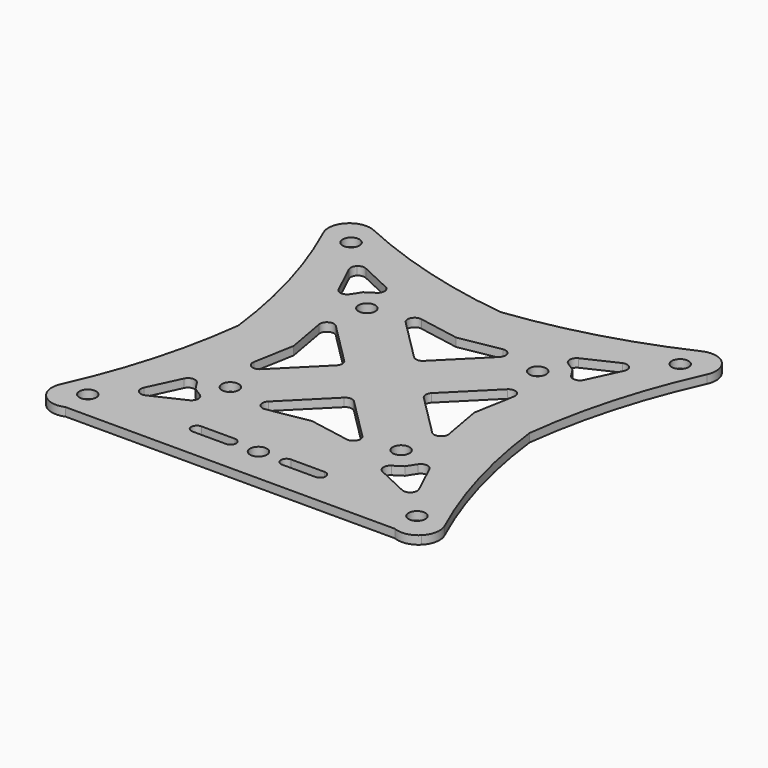
from build123d import *

# Parameters (mm, degrees)
F0_R     = 1.5
F1_DEPTH = 1.5


with BuildPart() as f1:
    # F0 (on Top) → F1 (new body)
    with BuildSketch(Plane.XY):
        with BuildLine():
            ThreePointArc((26, 0), (29.003525, 14.971686), (34.274381, 29.303142))
            ThreePointArc((34.274381, 29.303142), (34.556043, 31.528729), (33.516861, 33.516861))
            ThreePointArc((33.516861, 33.516861), (31.528729, 34.556043), (29.303142, 34.274381))
            ThreePointArc((29.303142, 34.274381), (14.971686, 29.003525), (0, 26))
            ThreePointArc((0, 26), (-14.971686, 29.003525), (-29.303142, 34.274381))
            ThreePointArc((-29.303142, 34.274381), (-31.528729, 34.556043), (-33.516861, 33.516861))
            ThreePointArc((-33.516861, 33.516861), (-34.556043, 31.528729), (-34.274381, 29.303142))
            ThreePointArc((-34.274381, 29.303142), (-29.003525, 14.971686), (-26, 0))
            ThreePointArc((-26, 0), (-29.003525, -14.971686), (-34.274381, -29.303142))
            ThreePointArc((-34.274381, -29.303142), (-34.556043, -31.528729), (-33.516861, -33.516861))
            ThreePointArc((-33.516861, -33.516861), (-31.590724, -34.544359), (-29.418712, -34.325))
            Line((-29.418712, -34.325), (29.418712, -34.325))
            ThreePointArc((29.418712, -34.325), (31.590724, -34.544359), (33.516861, -33.516861))
            ThreePointArc((33.516861, -33.516861), (34.556043, -31.528729), (34.274381, -29.303142))
            ThreePointArc((34.274381, -29.303142), (29.003525, -14.971686), (26, 0))
        make_face()
        with Locations((-29.392136, -29.392136)):
            Circle(F0_R, mode=Mode.SUBTRACT)
        with BuildLine():
            ThreePointArc((-24.324473, -24.324473), (-24.671832, -23.656327), (-24.572337, -22.909884))
            Line((-24.572337, -22.909884), (-21.918806, -17.251149))
            ThreePointArc((-21.918806, -17.251149), (-20.871666, -16.534722), (-19.73736, -17.103157))
            Line((-19.73736, -17.103157), (-18.702974, -18.702974))
            Line((-18.702974, -18.702974), (-17.103157, -19.73736))
            ThreePointArc((-17.103157, -19.73736), (-16.534722, -20.871666), (-17.251149, -21.918806))
            Line((-17.251149, -21.918806), (-22.909884, -24.572337))
            ThreePointArc((-22.909884, -24.572337), (-23.656327, -24.671832), (-24.324473, -24.324473))
        make_face(mode=Mode.SUBTRACT)
        with BuildLine():
            Line((-11, -27.025), (-5, -27.025))
            ThreePointArc((-5, -27.025), (-4, -28.025), (-5, -29.025))
            Line((-5, -29.025), (-11, -29.025))
            ThreePointArc((-11, -29.025), (-12, -28.025), (-11, -27.025))
        make_face(mode=Mode.SUBTRACT)
        with Locations((-15.25, -15.25)):
            Circle(F0_R, mode=Mode.SUBTRACT)
        with Locations((0, -28.025)):
            Circle(F0_R, mode=Mode.SUBTRACT)
        with BuildLine():
            ThreePointArc((5, -29.025), (4, -28.025), (5, -27.025))
            Line((5, -27.025), (11, -27.025))
            ThreePointArc((11, -27.025), (12, -28.025), (11, -29.025))
            Line((11, -29.025), (5, -29.025))
        make_face(mode=Mode.SUBTRACT)
        with Locations((29.392136, -29.392136)):
            Circle(F0_R, mode=Mode.SUBTRACT)
        with BuildLine():
            Line((21.918806, -17.251149), (24.572337, -22.909884))
            ThreePointArc((24.572337, -22.909884), (24.671832, -23.656327), (24.324473, -24.324473))
            ThreePointArc((24.324473, -24.324473), (23.656327, -24.671832), (22.909884, -24.572337))
            Line((22.909884, -24.572337), (17.251149, -21.918806))
            ThreePointArc((17.251149, -21.918806), (16.534722, -20.871666), (17.103157, -19.73736))
            Line((17.103157, -19.73736), (18.702974, -18.702974))
            Line((18.702974, -18.702974), (19.73736, -17.103157))
            ThreePointArc((19.73736, -17.103157), (20.871666, -16.534722), (21.918806, -17.251149))
        make_face(mode=Mode.SUBTRACT)
        with BuildLine():
            ThreePointArc((8.383883, -15.31353), (8.608023, -16.776019), (7.279787, -17.427863))
            Line((7.279787, -17.427863), (0, -16.125))
            Line((0, -16.125), (-7.279787, -17.427863))
            ThreePointArc((-7.279787, -17.427863), (-8.608023, -16.776019), (-8.383883, -15.31353))
            Line((-8.383883, -15.31353), (-0.883883, -7.81353))
            ThreePointArc((-0.883883, -7.81353), (0, -7.447413), (0.883883, -7.81353))
            Line((0.883883, -7.81353), (8.383883, -15.31353))
        make_face(mode=Mode.SUBTRACT)
        with Locations((15.25, -15.25)):
            Circle(F0_R, mode=Mode.SUBTRACT)
        with BuildLine():
            Line((-16.125, 0), (-17.427863, 7.279787))
            ThreePointArc((-17.427863, 7.279787), (-16.776019, 8.608023), (-15.31353, 8.383883))
            Line((-15.31353, 8.383883), (-7.81353, 0.883883))
            ThreePointArc((-7.81353, 0.883883), (-7.447413, 0), (-7.81353, -0.883883))
            Line((-7.81353, -0.883883), (-15.31353, -8.383883))
            ThreePointArc((-15.31353, -8.383883), (-16.776019, -8.608023), (-17.427863, -7.279787))
            Line((-17.427863, -7.279787), (-16.125, 0))
        make_face(mode=Mode.SUBTRACT)
        with Locations((-15.25, 15.25)):
            Circle(F0_R, mode=Mode.SUBTRACT)
        with BuildLine():
            ThreePointArc((-17.251149, 21.918806), (-16.534722, 20.871666), (-17.103157, 19.73736))
            Line((-17.103157, 19.73736), (-18.702974, 18.702974))
            Line((-18.702974, 18.702974), (-19.73736, 17.103157))
            ThreePointArc((-19.73736, 17.103157), (-20.871666, 16.534722), (-21.918806, 17.251149))
            Line((-21.918806, 17.251149), (-24.572337, 22.909884))
            ThreePointArc((-24.572337, 22.909884), (-24.671832, 23.656327), (-24.324473, 24.324473))
            ThreePointArc((-24.324473, 24.324473), (-23.656327, 24.671832), (-22.909884, 24.572337))
            Line((-22.909884, 24.572337), (-17.251149, 21.918806))
        make_face(mode=Mode.SUBTRACT)
        with Locations((-29.392136, 29.392136)):
            Circle(F0_R, mode=Mode.SUBTRACT)
        with BuildLine():
            ThreePointArc((7.81353, -0.883883), (7.447413, 0), (7.81353, 0.883883))
            Line((7.81353, 0.883883), (15.31353, 8.383883))
            ThreePointArc((15.31353, 8.383883), (16.776019, 8.608023), (17.427863, 7.279787))
            Line((17.427863, 7.279787), (16.125, 0))
            Line((16.125, 0), (17.427863, -7.279787))
            ThreePointArc((17.427863, -7.279787), (16.776019, -8.608023), (15.31353, -8.383883))
            Line((15.31353, -8.383883), (7.81353, -0.883883))
        make_face(mode=Mode.SUBTRACT)
        with BuildLine():
            Line((-7.279787, 17.427863), (0, 16.125))
            Line((0, 16.125), (7.279787, 17.427863))
            ThreePointArc((7.279787, 17.427863), (8.608023, 16.776019), (8.383883, 15.31353))
            Line((8.383883, 15.31353), (0.883883, 7.81353))
            ThreePointArc((0.883883, 7.81353), (0, 7.447413), (-0.883883, 7.81353))
            Line((-0.883883, 7.81353), (-8.383883, 15.31353))
            ThreePointArc((-8.383883, 15.31353), (-8.608023, 16.776019), (-7.279787, 17.427863))
        make_face(mode=Mode.SUBTRACT)
        with Locations((15.25, 15.25)):
            Circle(F0_R, mode=Mode.SUBTRACT)
        with BuildLine():
            Line((19.73736, 17.103157), (18.702974, 18.702974))
            Line((18.702974, 18.702974), (17.103157, 19.73736))
            ThreePointArc((17.103157, 19.73736), (16.534722, 20.871666), (17.251149, 21.918806))
            Line((17.251149, 21.918806), (22.909884, 24.572337))
            ThreePointArc((22.909884, 24.572337), (23.656327, 24.671832), (24.324473, 24.324473))
            ThreePointArc((24.324473, 24.324473), (24.671832, 23.656327), (24.572337, 22.909884))
            Line((24.572337, 22.909884), (21.918806, 17.251149))
            ThreePointArc((21.918806, 17.251149), (20.871666, 16.534722), (19.73736, 17.103157))
        make_face(mode=Mode.SUBTRACT)
        with Locations((29.392136, 29.392136)):
            Circle(F0_R, mode=Mode.SUBTRACT)
    extrude(amount=F1_DEPTH)


solid = f1.part
